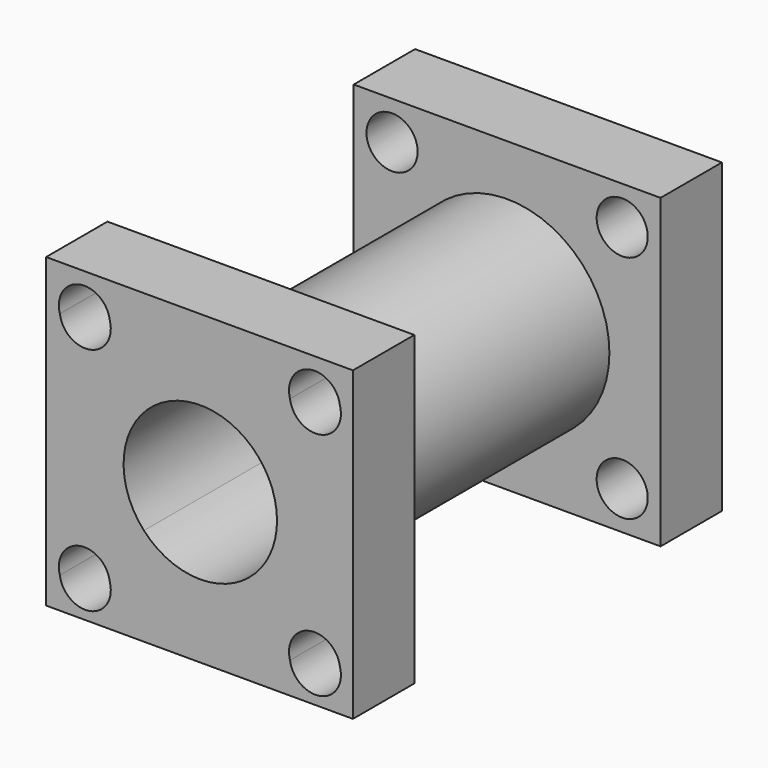
from build123d import *

# Parameters (mm, degrees)
F0_W      = 76.2
F0_H      = 76.2
F1_DEPTH  = 19.05
F2_R      = 25.4
F3_DEPTH  = 76.2
F5_W      = 76.2
F5_H      = 76.2
F5_R      = 25.4
F4_R      = 25.4
F6_DEPTH  = 19.05
F8_DEPTH  = 114.301
F9_R      = 6.35
F10_R     = 6.35
F11_DEPTH = 25.4
F12_R     = 6.35
F13_DEPTH = 114.301


with BuildPart() as f1:
    # F0 (on Front) → F1 (new body)
    with BuildSketch(Plane.XZ):
        with Locations((0, -0.0663684971)):
            Rectangle(F0_W, F0_H)
    extrude(amount=F1_DEPTH)

    # F2 (on face) → F3 (join)
    with BuildSketch(Plane.XZ.offset(19.05)):
        Circle(F2_R)
    extrude(amount=F3_DEPTH)

    # F5 (on face) + F4 (on face) → F6 (join)
    with BuildSketch(Plane.XZ.offset(95.25)):
        with Locations((-0.1962948591, 0.8762047957)):
            Rectangle(F5_W, F5_H)
        Circle(F5_R, mode=Mode.SUBTRACT)
    with BuildSketch(Plane.XZ.offset(95.25)):
        Circle(F4_R)
    extrude(amount=F6_DEPTH)

    # F7 (on face) → F8 (cut, through all)
    with BuildSketch(Plane.XZ.offset(114.3)):
        with BuildLine():
            Line((-0.196411438, 0.8763213746), (-13.1261387718, 13.8060487085))
            ThreePointArc((-13.1261387718, 13.8060487085), (-19.0399198266, 0.6196394072), (-13.9960272385, -12.9233788747))
            Line((-13.9960272385, -12.9233788747), (-0.196411438, 0.8763213746))
        make_face()
        with BuildLine():
            Line((13.8060487085, -13.1261387718), (-0.196411438, 0.8763213746))
            Line((-0.196411438, 0.8763213746), (-13.9960272385, -12.9233788747))
            ThreePointArc((-13.9960272385, -12.9233788747), (-0.1389275151, -19.0494934092), (13.8060487085, -13.1261387718))
        make_face()
        with BuildLine():
            Line((12.923293224, 13.9961063245), (-0.196411438, 0.8763213746))
            Line((-0.196411438, 0.8763213746), (13.8060487085, -13.1261387718))
            ThreePointArc((13.8060487085, -13.1261387718), (17.690502083, -7.067434899), (19.05, 0))
            ThreePointArc((19.05, 0), (17.4512354279, 7.6391676275), (12.923293224, 13.9961063245))
        make_face()
        with BuildLine():
            ThreePointArc((12.923293224, 13.9961063245), (-0.138985803, 19.049492984), (-13.1261387718, 13.8060487085))
            Line((-13.1261387718, 13.8060487085), (-0.196411438, 0.8763213746))
            Line((-0.196411438, 0.8763213746), (12.923293224, 13.9961063245))
        make_face()
    extrude(amount=-F8_DEPTH, mode=Mode.SUBTRACT)

    # F9 (on face) + F10 (on face) → F11 (cut)
    with BuildSketch(Plane.XZ.offset(114.3)):
        with Locations((28.3787051409, -27.6987952043)):
            Circle(F9_R)
        with Locations((-28.7712948591, 29.4512047957)):
            Circle(F9_R)
        with Locations((-28.7712948591, -27.6987952043)):
            Circle(F9_R)
    with BuildSketch(Plane.XZ.offset(114.3)):
        with Locations((28.3787051409, 29.4512047957)):
            Circle(F10_R)
    extrude(amount=-F11_DEPTH, mode=Mode.SUBTRACT)

    # F12 (on face) → F13 (cut, through all)
    with BuildSketch(Plane(origin=(0, 0, 0), x_dir=(-1, 0, 0), z_dir=(0, 1, 0))):
        with Locations((28.575, -28.6413684971)):
            Circle(F12_R)
        with Locations((28.575, 28.5086315029)):
            Circle(F12_R)
        with Locations((-28.575, 28.5086315029)):
            Circle(F12_R)
        with Locations((-28.575, -28.6247763728)):
            Circle(F12_R)
    extrude(amount=-F13_DEPTH, mode=Mode.SUBTRACT)


solid = f1.part
